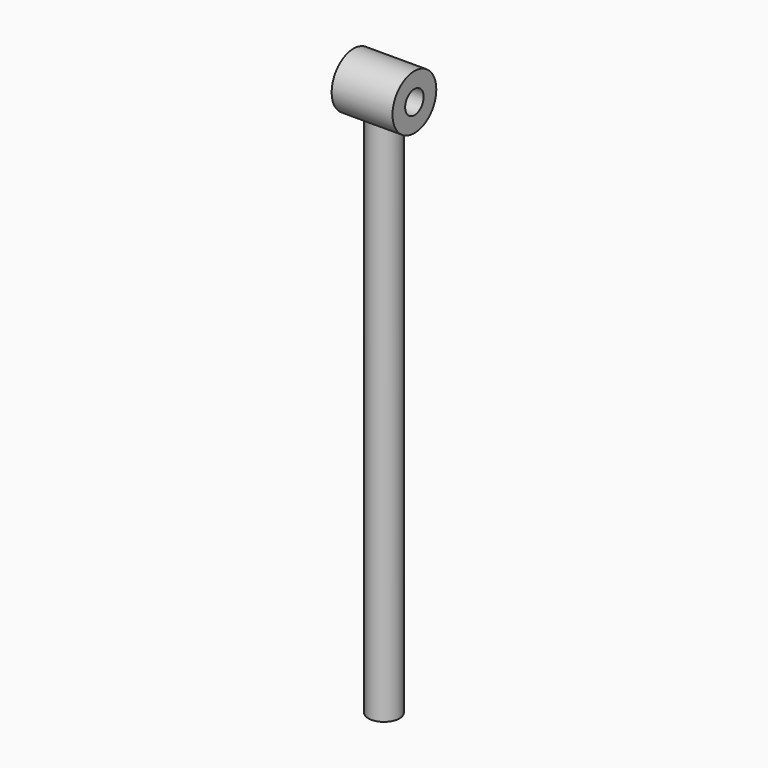
from build123d import *

# Parameters (mm, degrees)
F0_R     = 51
F1_DEPTH = 1800
F2_R     = 90
F3_DEPTH = 100
F4_R     = 38
F5_DEPTH = 200.001


with BuildPart() as f1:
    # F0 (on Top) → F1 (new body)
    with BuildSketch(Plane.XY):
        Circle(F0_R)
    extrude(amount=F1_DEPTH)

    # F2 (on Right) → F3 (join, symmetric)
    with BuildSketch(Plane.YZ):
        with Locations((0, 1800)):
            Circle(F2_R)
    extrude(amount=F3_DEPTH, both=True)

    # F4 (on face) → F5 (cut, through all)
    with BuildSketch(Plane.YZ.offset(100)):
        with Locations((0, 1800)):
            Circle(F4_R)
    extrude(amount=-F5_DEPTH, mode=Mode.SUBTRACT)


solid = f1.part
